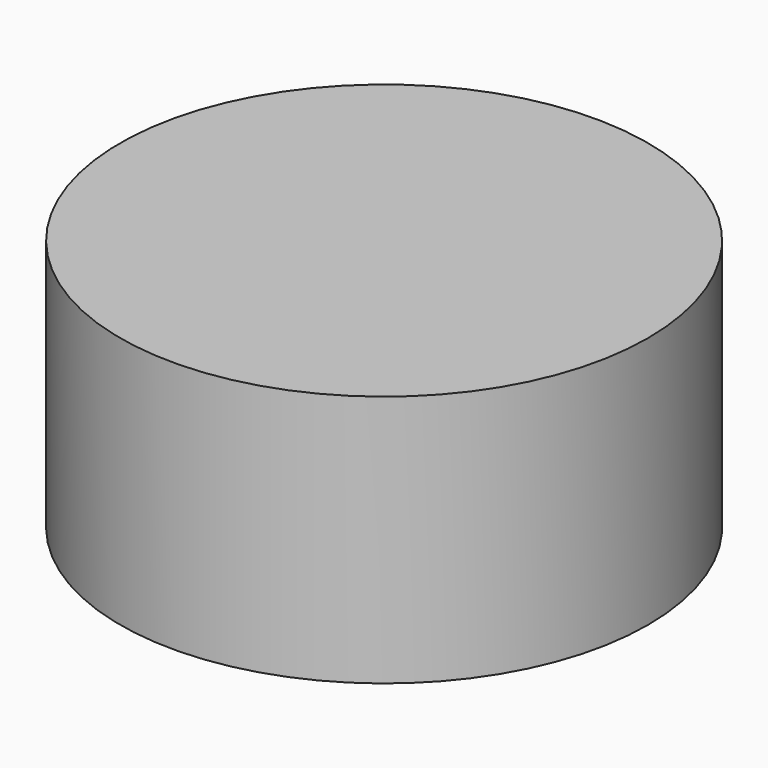
from build123d import *

# Parameters (mm, degrees)
F0_R     = 73.025
F1_DEPTH = 69.85
F3_DEPTH = 25.4


with BuildPart() as f1:
    # F0 (on Top) → F1 (new body)
    with BuildSketch(Plane.XY):
        Circle(F0_R)
    extrude(amount=F1_DEPTH)

    # F2 (on face) → F3 (join)
    with BuildSketch(Plane.XY):
        with BuildLine():
            ThreePointArc((-6.35, 60.96), (-61.289837, 0), (-6.35, -60.96))
            Line((-6.35, -60.96), (-6.35, 60.96))
        make_face()
        with BuildLine():
            Line((6.35, 60.96), (6.35, -60.96))
            ThreePointArc((6.35, -60.96), (61.289837, 0), (6.35, 60.96))
        make_face()
    extrude(amount=F3_DEPTH)


solid = f1.part
